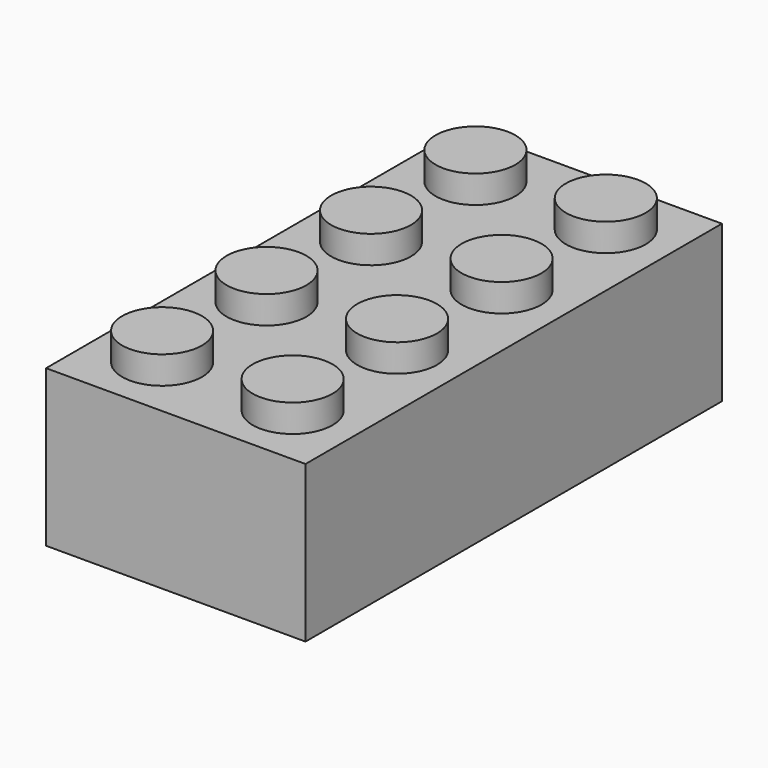
from build123d import *

# Parameters (mm, degrees)
F0_W     = 15.928
F0_H     = 31.956
F1_DEPTH = 9.6
F2_R     = 2.45
F3_DEPTH = 1.7


with BuildPart() as f1:
    # F0 (on Top) → F1 (new body)
    with BuildSketch(Plane.XY):
        with Locations((7.964, 15.978)):
            Rectangle(F0_W, F0_H)
    extrude(amount=F1_DEPTH)

    # F2 (on face) → F3 (join)
    with BuildSketch(Plane.XY.offset(9.6)):
        with Locations((11.971, 3.957)):
            Circle(F2_R)
        with Locations((3.957, 3.957)):
            Circle(F2_R)
        with Locations((11.9656, 27.999)):
            Circle(F2_R)
        with Locations((3.9624, 27.999)):
            Circle(F2_R)
        with Locations((3.9624, 19.985)):
            Circle(F2_R)
        with Locations((11.9764, 19.985)):
            Circle(F2_R)
        with Locations((11.971, 11.971)):
            Circle(F2_R)
        with Locations((3.957, 11.971)):
            Circle(F2_R)
    extrude(amount=F3_DEPTH)


solid = f1.part
